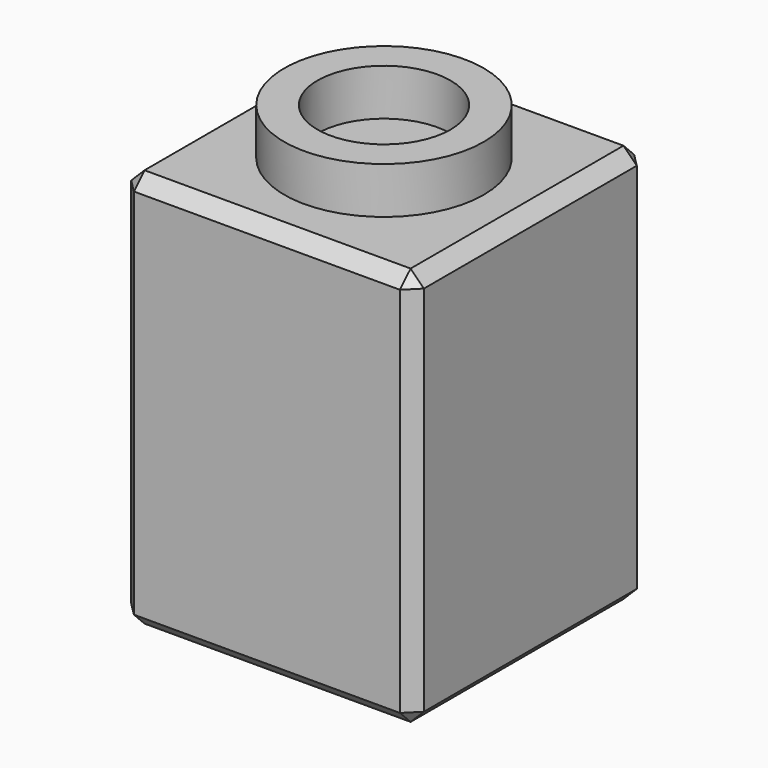
from build123d import *

# Parameters (mm, degrees)
F2_W     = 44
F2_H     = 44
F2_R     = 15
F2_R_2   = 10
F3_DEPTH = 60
F4_R     = 15
F4_R_2   = 10
F5_DEPTH = 7
F6_DEPTH = 9
F8_SIZE  = 2


with BuildPart() as f3:
    # F2 (on Top) → F3 (new body)
    with BuildSketch(Plane.XY):
        Rectangle(F2_W, F2_H)
        Circle(F2_R, mode=Mode.SUBTRACT)
        Circle(F2_R)
        Circle(F2_R_2, mode=Mode.SUBTRACT)
        Circle(F2_R_2)
    extrude(amount=F3_DEPTH)

    # F4 (on face) → F5 (join)
    with BuildSketch(Plane.XY.offset(60)):
        Circle(F4_R)
        Circle(F4_R_2, mode=Mode.SUBTRACT)
    extrude(amount=F5_DEPTH)

    # F2 (on Top) → F6 (cut)
    with BuildSketch(Plane.XY):
        Circle(F2_R)
        Circle(F2_R_2, mode=Mode.SUBTRACT)
        Circle(F2_R_2)
    extrude(amount=F6_DEPTH, mode=Mode.SUBTRACT)

    # F8
    f8_edges = [f3.edges().sort_by_distance(p)[0] for p in [
        (0, -22, 0),
        (22, 0, 0),
        (-22, 0, 0),
        (0, 22, 0),
        (-22, -22, 30),
        (-22, 22, 30),
        (22, 22, 30),
        (22, -22, 30),
        (22, 0, 60),
        (0, -22, 60),
        (-22, 0, 60),
        (0, 22, 60),
        (-15, 0, 0),
    ]]
    chamfer(f8_edges, length=F8_SIZE)


solid = f3.part
